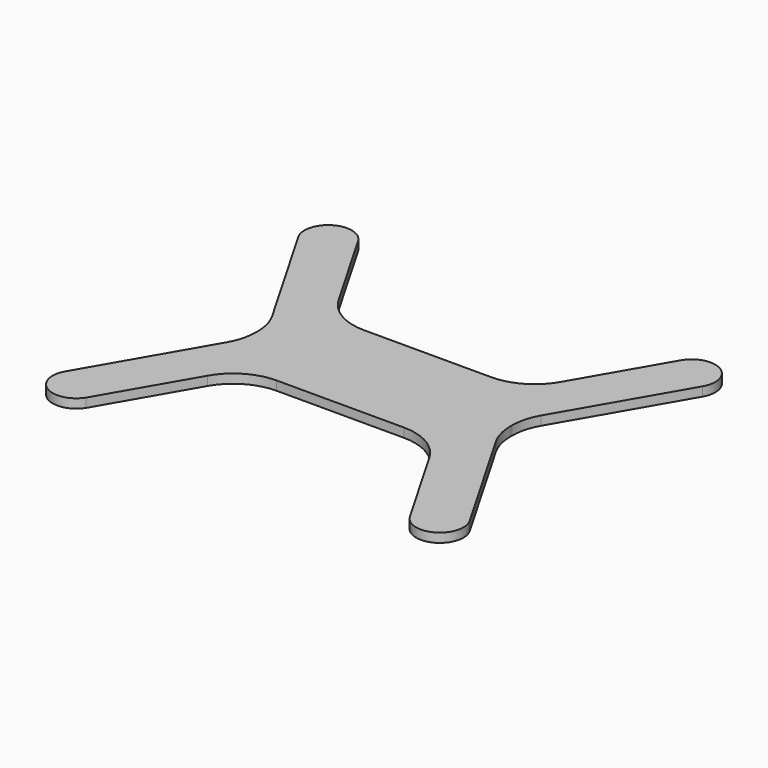
from build123d import *

# Parameters (mm, degrees)
F1_DEPTH = 2.5
F2_R     = 15


with BuildPart() as f1:
    # F0 (on Top) → F1 (new body)
    with BuildSketch(Plane.XY):
        with BuildLine():
            ThreePointArc((-44.547231, 46.839252), (-53.25, 48.930435), (-55.790366, 40.348025))
            Line((-55.790366, 40.348025), (-35, 4.338054))
            Line((-35, 4.338054), (-35, 0))
            Line((-35, 0), (-35, -4.338054))
            Line((-35, -4.338054), (-55.790366, -40.348025))
            ThreePointArc((-55.790366, -40.348025), (-53.25, -48.930435), (-44.547231, -46.839252))
            Line((-44.547231, -46.839252), (-26.164831, -15))
            Line((-26.164831, -15), (0, -15))
            Line((0, -15), (26.154701, -15))
            Line((26.154701, -15), (44.370835, -46.55127))
            ThreePointArc((44.370835, -46.55127), (53.25, -48.930435), (55.629165, -40.05127))
            Line((55.629165, -40.05127), (35, -4.320508))
            Line((35, -4.320508), (35, 0))
            Line((35, 0), (35, 4.320508))
            Line((35, 4.320508), (55.629165, 40.05127))
            ThreePointArc((55.629165, 40.05127), (53.25, 48.930435), (44.370835, 46.55127))
            Line((44.370835, 46.55127), (26.154701, 15))
            Line((26.154701, 15), (0, 15))
            Line((0, 15), (-26.164831, 15))
            Line((-26.164831, 15), (-44.547231, 46.839252))
        make_face()
    extrude(amount=F1_DEPTH)

    # F2
    f2_edges = [f1.edges().sort_by_distance(p)[0] for p in [
        (26.154701, 15, 1.25),
        (-26.164831, 15, 1.25),
        (26.154701, -15, 1.25),
        (-26.164831, -15, 1.25),
        (-35, -4.338054, 1.25),
        (-35, 4.338054, 1.25),
        (35, -4.320508, 1.25),
        (35, 4.320508, 1.25),
    ]]
    fillet(f2_edges, radius=F2_R)


solid = f1.part
